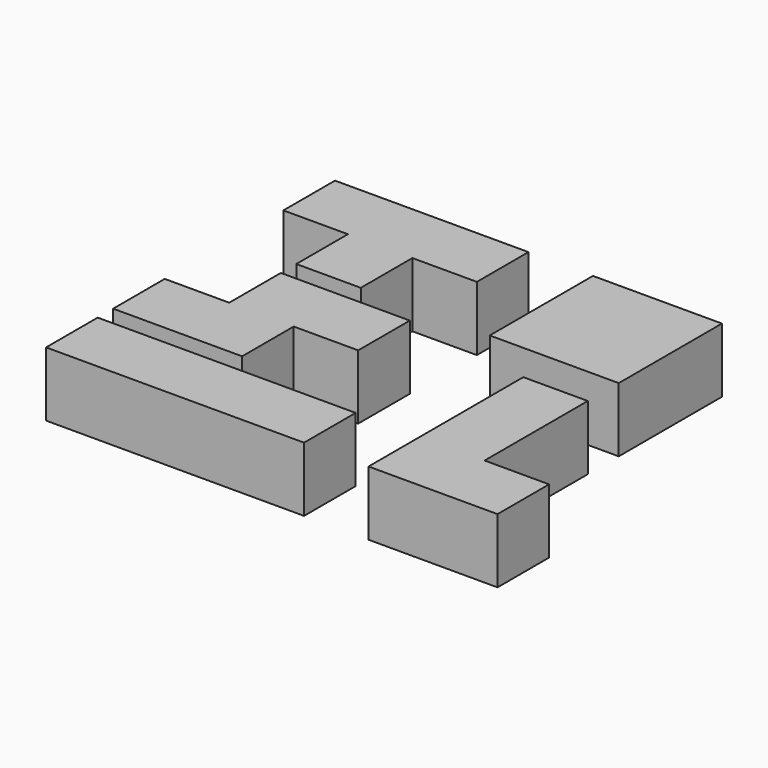
from build123d import *

# Parameters (mm, degrees)
BOX001_W     = 10
BOX001_H     = 10
BOX001_DEPTH = 10
BOX002_W     = 10
BOX002_H     = 10
BOX002_DEPTH = 10
BOX003_W     = 10
BOX003_H     = 10
BOX003_DEPTH = 10
BOX_W        = 10
BOX_H        = 10
BOX_DEPTH    = 10
BOX004_W     = 10
BOX004_H     = 10
BOX004_DEPTH = 10
BOX005_W     = 10
BOX005_H     = 10
BOX005_DEPTH = 10
BOX006_W     = 10
BOX006_H     = 10
BOX006_DEPTH = 10
BOX007_W     = 10
BOX007_H     = 10
BOX007_DEPTH = 10
BOX008_W     = 20
BOX008_H     = 10
BOX008_DEPTH = 10
BOX009_W     = 10
BOX009_H     = 20
BOX009_DEPTH = 10
BOX010_W     = 20
BOX010_H     = 20
BOX010_DEPTH = 10
BOX011_W     = 30
BOX011_H     = 10
BOX011_DEPTH = 10
BOX012_W     = 10
BOX012_H     = 10
BOX012_DEPTH = 10


with BuildPart() as cubo2:
    # Box001 → Box001 (new body)
    with BuildSketch(Plane(origin=(10, 0, 0), x_dir=(1, 0, 0), z_dir=(0, 0, 1))):
        with Locations((5, 5)):
            Rectangle(BOX001_W, BOX001_H)
    extrude(amount=BOX001_DEPTH)


with BuildPart() as cubo3:
    # Box002 → Box002 (new body)
    with BuildSketch(Plane(origin=(10, 10, 0), x_dir=(1, 0, 0), z_dir=(0, 0, 1))):
        with Locations((5, 5)):
            Rectangle(BOX002_W, BOX002_H)
    extrude(amount=BOX002_DEPTH)


with BuildPart() as cubo4:
    # Box003 → Box003 (new body)
    with BuildSketch(Plane(origin=(20, 10, 0), x_dir=(1, 0, 0), z_dir=(0, 0, 1))):
        with Locations((5, 5)):
            Rectangle(BOX003_W, BOX003_H)
    extrude(amount=BOX003_DEPTH)


with BuildPart() as pieza1:
    # Box → Box (new body)
    with BuildSketch(Plane.XY):
        with Locations((5, 5)):
            Rectangle(BOX_W, BOX_H)
    extrude(amount=BOX_DEPTH)

    # Fusion: union cubo2, cubo3, cubo4
    add(cubo2.part)
    add(cubo3.part)
    add(cubo4.part)


with BuildPart() as cube:
    # Box004 → Box004 (new body)
    with BuildSketch(Plane(origin=(0, -13, 0), x_dir=(1, 0, 0), z_dir=(0, 0, 1))):
        with Locations((5, 5)):
            Rectangle(BOX004_W, BOX004_H)
    extrude(amount=BOX004_DEPTH)


with BuildPart() as cube001:
    # Box005 → Box005 (new body)
    with BuildSketch(Plane(origin=(10, -13, 0), x_dir=(1, 0, 0), z_dir=(0, 0, 1))):
        with Locations((5, 5)):
            Rectangle(BOX005_W, BOX005_H)
    extrude(amount=BOX005_DEPTH)


with BuildPart() as cube002:
    # Box006 → Box006 (new body)
    with BuildSketch(Plane(origin=(20, -13, 0), x_dir=(1, 0, 0), z_dir=(0, 0, 1))):
        with Locations((5, 5)):
            Rectangle(BOX006_W, BOX006_H)
    extrude(amount=BOX006_DEPTH)


with BuildPart() as fusion001:
    # Box007 → Box007 (new body)
    with BuildSketch(Plane(origin=(30, -13, 0), x_dir=(1, 0, 0), z_dir=(0, 0, 1))):
        with Locations((5, 5)):
            Rectangle(BOX007_W, BOX007_H)
    extrude(amount=BOX007_DEPTH)

    # Fusion001: union Cube, Cube001, Cube002
    add(cube.part)
    add(cube001.part)
    add(cube002.part)


with BuildPart() as cube004:
    # Box008 → Box008 (new body)
    with BuildSketch(Plane(origin=(50, -13, 0), x_dir=(1, 0, 0), z_dir=(0, 0, 1))):
        with Locations((10, 5)):
            Rectangle(BOX008_W, BOX008_H)
    extrude(amount=BOX008_DEPTH)


with BuildPart() as pieza3:
    # Box009 → Box009 (new body)
    with BuildSketch(Plane(origin=(50, -3, 0), x_dir=(1, 0, 0), z_dir=(0, 0, 1))):
        with Locations((5, 10)):
            Rectangle(BOX009_W, BOX009_H)
    extrude(amount=BOX009_DEPTH)

    # Fusion002: union Cube004
    add(cube004.part)


with BuildPart() as pieza4:
    # Box010 → Box010 (new body)
    with BuildSketch(Plane(origin=(40, 23, 0), x_dir=(1, 0, 0), z_dir=(0, 0, 1))):
        with Locations((10, 10)):
            Rectangle(BOX010_W, BOX010_H)
    extrude(amount=BOX010_DEPTH)


with BuildPart() as cube006:
    # Box011 → Box011 (new body)
    with BuildSketch(Plane(origin=(0, 33, 0), x_dir=(1, 0, 0), z_dir=(0, 0, 1))):
        with Locations((15, 5)):
            Rectangle(BOX011_W, BOX011_H)
    extrude(amount=BOX011_DEPTH)


with BuildPart() as pieza5:
    # Box012 → Box012 (new body)
    with BuildSketch(Plane(origin=(10, 23, 0), x_dir=(1, 0, 0), z_dir=(0, 0, 1))):
        with Locations((5, 5)):
            Rectangle(BOX012_W, BOX012_H)
    extrude(amount=BOX012_DEPTH)

    # Fusion003: union Cube006
    add(cube006.part)


solid = Compound([pieza1.part, fusion001.part, pieza3.part, pieza4.part, pieza5.part])
